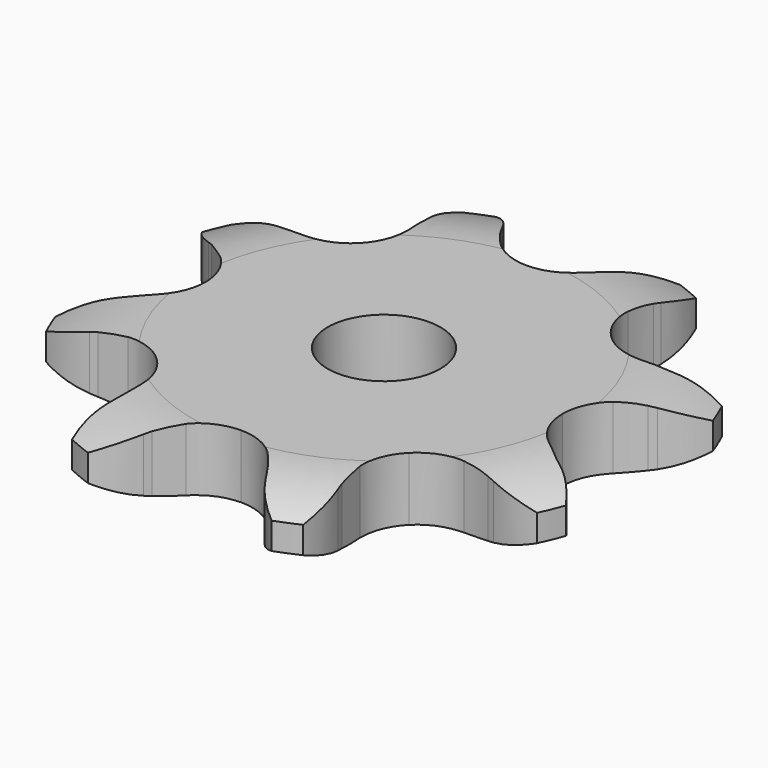
from build123d import *

# Parameters (mm, degrees)
PAD_DEPTH         = 4.5
SKETCH001_R       = 4
POCKET_DEPTH      = 0.001
POCKET_DEPTH_BACK = -4.501


with BuildPart() as part:
    # Sprocket → Pad (new body)
    with BuildSketch(Plane.XY):
        with BuildLine():
            ThreePointArc((-7.750718, 18.711888), (-5.807188, 17.609119), (-4.336956, 15.926317))
            Line((-4.336956, 15.926317), (-4.068236, 15.487805))
            ThreePointArc((-4.068236, 15.487805), (-3.521035, 14.684133), (-2.899325, 13.936608))
            ThreePointArc((-2.899325, 13.936608), (-1.583791, 12.99391), (0, 12.660875))
            ThreePointArc((0, 12.660875), (1.583791, 12.99391), (2.899325, 13.936608))
            ThreePointArc((2.899325, 13.936608), (3.521035, 14.684133), (4.068236, 15.487805))
            Line((4.068236, 15.487805), (4.336956, 15.926317))
            ThreePointArc((4.336956, 15.926317), (5.807188, 17.609119), (7.750718, 18.711888))
            ThreePointArc((7.750718, 18.711888), (8.345226, 16.557829), (8.194916, 14.328297))
            Line((8.194916, 14.328297), (8.074855, 13.828209))
            ThreePointArc((8.074855, 13.828209), (7.893503, 12.872998), (7.804538, 11.904802))
            ThreePointArc((7.804538, 11.904802), (8.068172, 10.307992), (8.95259, 8.95259))
            ThreePointArc((8.95259, 8.95259), (10.307992, 8.068172), (11.904802, 7.804538))
            Line((11.904802, 7.804538), (13.828209, 8.074855))
            ThreePointArc((13.828209, 8.074855), (14.077491, 8.138059), (14.328297, 8.194916))
            ThreePointArc((14.328297, 8.194916), (16.557829, 8.345226), (18.711888, 7.750718))
            ThreePointArc((18.711888, 7.750718), (17.609119, 5.807188), (15.926317, 4.336956))
            Line((15.926317, 4.336956), (15.487805, 4.068236))
            ThreePointArc((15.487805, 4.068236), (14.684133, 3.521035), (13.936608, 2.899325))
            ThreePointArc((13.936608, 2.899325), (12.99391, 1.583791), (12.660875, 0))
            ThreePointArc((12.660875, 0), (12.99391, -1.583791), (13.936608, -2.899325))
            Line((13.936608, -2.899325), (15.487805, -4.068236))
            ThreePointArc((15.487805, -4.068236), (15.708766, -4.199813), (15.926317, -4.336956))
            ThreePointArc((15.926317, -4.336956), (17.609119, -5.807188), (18.711888, -7.750718))
            ThreePointArc((18.711888, -7.750718), (16.557829, -8.345226), (14.328297, -8.194916))
            Line((14.328297, -8.194916), (13.828209, -8.074855))
            ThreePointArc((13.828209, -8.074855), (12.872998, -7.893503), (11.904802, -7.804538))
            ThreePointArc((11.904802, -7.804538), (10.307992, -8.068172), (8.95259, -8.95259))
            ThreePointArc((8.95259, -8.95259), (8.068172, -10.307992), (7.804538, -11.904802))
            Line((7.804538, -11.904802), (8.074855, -13.828209))
            ThreePointArc((8.074855, -13.828209), (8.138059, -14.077491), (8.194916, -14.328297))
            ThreePointArc((8.194916, -14.328297), (8.345226, -16.557829), (7.750718, -18.711888))
            ThreePointArc((7.750718, -18.711888), (5.807188, -17.609119), (4.336956, -15.926317))
            Line((4.336956, -15.926317), (4.068236, -15.487805))
            ThreePointArc((4.068236, -15.487805), (3.521035, -14.684133), (2.899325, -13.936608))
            ThreePointArc((2.899325, -13.936608), (1.583791, -12.99391), (0, -12.660875))
            ThreePointArc((0, -12.660875), (-1.583791, -12.99391), (-2.899325, -13.936608))
            Line((-2.899325, -13.936608), (-4.068236, -15.487805))
            ThreePointArc((-4.068236, -15.487805), (-4.199813, -15.708766), (-4.336956, -15.926317))
            ThreePointArc((-4.336956, -15.926317), (-5.807188, -17.609119), (-7.750718, -18.711888))
            ThreePointArc((-7.750718, -18.711888), (-8.345226, -16.557829), (-8.194916, -14.328297))
            Line((-8.194916, -14.328297), (-8.074855, -13.828209))
            ThreePointArc((-8.074855, -13.828209), (-7.893503, -12.872998), (-7.804538, -11.904802))
            ThreePointArc((-7.804538, -11.904802), (-8.068172, -10.307992), (-8.95259, -8.95259))
            ThreePointArc((-8.95259, -8.95259), (-10.307992, -8.068172), (-11.904802, -7.804538))
            Line((-11.904802, -7.804538), (-13.828209, -8.074855))
            ThreePointArc((-13.828209, -8.074855), (-14.077491, -8.138059), (-14.328297, -8.194916))
            ThreePointArc((-14.328297, -8.194916), (-16.557829, -8.345226), (-18.711888, -7.750718))
            ThreePointArc((-18.711888, -7.750718), (-17.609119, -5.807188), (-15.926317, -4.336956))
            Line((-15.926317, -4.336956), (-15.487805, -4.068236))
            ThreePointArc((-15.487805, -4.068236), (-14.684133, -3.521035), (-13.936608, -2.899325))
            ThreePointArc((-13.936608, -2.899325), (-12.99391, -1.583791), (-12.660875, 0))
            ThreePointArc((-12.660875, 0), (-12.99391, 1.583791), (-13.936608, 2.899325))
            Line((-13.936608, 2.899325), (-15.487805, 4.068236))
            ThreePointArc((-15.487805, 4.068236), (-15.708766, 4.199813), (-15.926317, 4.336956))
            ThreePointArc((-15.926317, 4.336956), (-17.609119, 5.807188), (-18.711888, 7.750718))
            ThreePointArc((-18.711888, 7.750718), (-16.557829, 8.345226), (-14.328297, 8.194916))
            Line((-14.328297, 8.194916), (-13.828209, 8.074855))
            ThreePointArc((-13.828209, 8.074855), (-12.872998, 7.893503), (-11.904802, 7.804538))
            ThreePointArc((-11.904802, 7.804538), (-10.307992, 8.068172), (-8.95259, 8.95259))
            ThreePointArc((-8.95259, 8.95259), (-8.068172, 10.307992), (-7.804538, 11.904802))
            Line((-7.804538, 11.904802), (-8.074855, 13.828209))
            ThreePointArc((-8.074855, 13.828209), (-8.138059, 14.077491), (-8.194916, 14.328297))
            ThreePointArc((-8.194916, 14.328297), (-8.345226, 16.557829), (-7.750718, 18.711888))
        make_face()
    extrude(amount=PAD_DEPTH)

    # Sketch → Groove (revolve, cut)
    with BuildSketch(Plane.XZ):
        with BuildLine():
            Line((13.583431, 0), (19.25, 0))
            Line((24.916569, 0), (19.25, 0))
            Line((24.916569, 4.5), (24.916569, 0))
            Line((19.25, 4.5), (24.916569, 4.5))
            Line((13.583431, 4.5), (19.25, 4.5))
            ThreePointArc((19.25, 3.2), (16.49032, 4.170833), (13.583431, 4.5))
            Line((19.25, 1.3), (19.25, 3.2))
            ThreePointArc((13.583431, 0), (16.49032, 0.329167), (19.25, 1.3))
        make_face()
    revolve(axis=Axis((0, 0, 0), (0, 0, 1)), mode=Mode.SUBTRACT)

    # Sketch001 → Pocket (cut, two sides)
    with BuildSketch(Plane.XY) as pocket_sk:
        Circle(SKETCH001_R)
    extrude(amount=-POCKET_DEPTH, mode=Mode.SUBTRACT)
    extrude(pocket_sk.sketch, amount=-POCKET_DEPTH_BACK, mode=Mode.SUBTRACT)


solid = part.part
